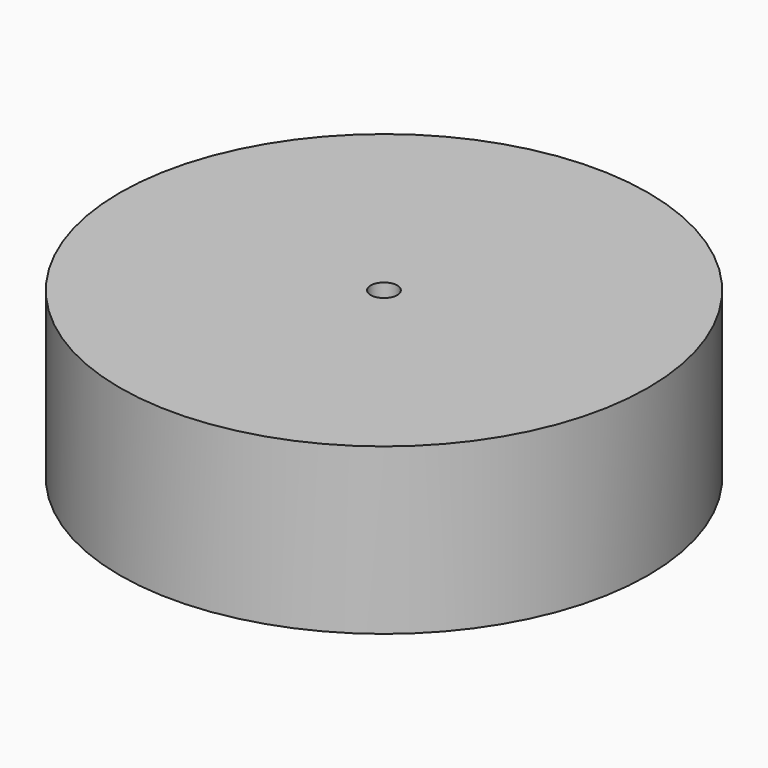
from build123d import *

# Parameters (mm, degrees)
SKETCH001_R  = 2
POCKET_DEPTH = 10.001


with BuildPart() as part:
    # Sketch → Revolution (revolve)
    with BuildSketch(Plane.XZ):
        Polygon((-8, 0), (-8, -15), (-40, -15), (-40, 10), (0, 10), (0, 0), align=None)
    revolve(axis=Axis((0, 0, 0), (0, 0, 1)))

    # Sketch001 → Pocket (cut, through all)
    with BuildSketch(Plane.XY):
        Circle(SKETCH001_R)
    extrude(amount=POCKET_DEPTH, mode=Mode.SUBTRACT)


solid = part.part
